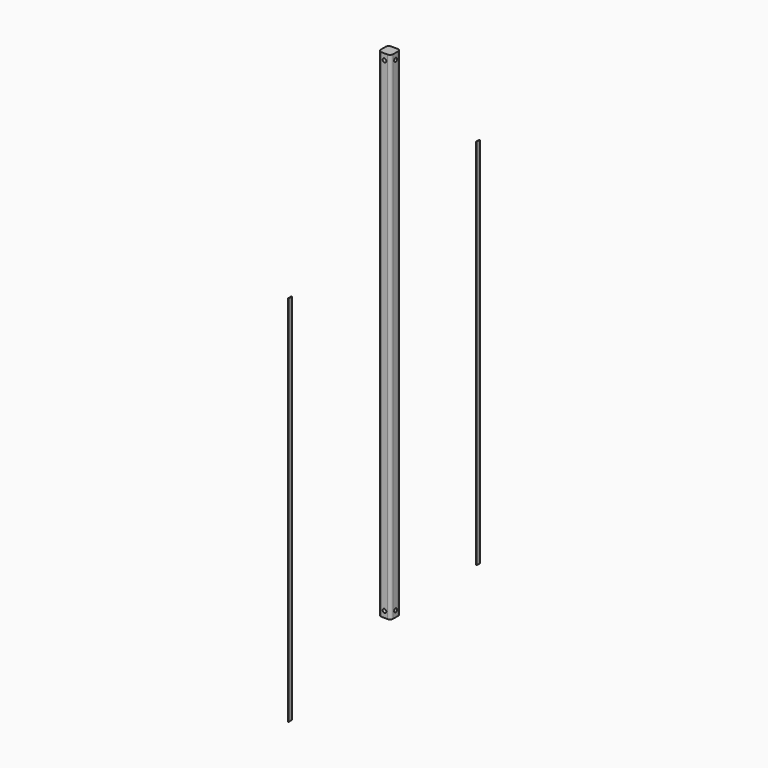
from build123d import *

# Parameters (mm, degrees)
F1_DEPTH  = 1016
F2_W      = 8.46582
F2_H      = 762
F3_DEPTH  = 1.27
F4_W      = 8.46582
F4_H      = 762
F5_DEPTH  = 1.27
F7_DEPTH  = 25.4
F8_DEPTH  = 25.4
F10_DEPTH = 25.4


with BuildPart() as f1:
    # F0 (on Top) → F1 (new body)
    with BuildSketch(Plane.XY):
        with BuildLine():
            ThreePointArc((12.7, 6.35), (10.840128, 10.840128), (6.35, 12.7))
            Line((6.35, 12.7), (-6.35, 12.7))
            ThreePointArc((-6.35, 12.7), (-10.840128, 10.840128), (-12.7, 6.35))
            Line((-12.7, 6.35), (-12.7, -6.35))
            ThreePointArc((-12.7, -6.35), (-10.840128, -10.840128), (-6.35, -12.7))
            Line((-6.35, -12.7), (6.35, -12.7))
            ThreePointArc((6.35, -12.7), (10.840128, -10.840128), (12.7, -6.35))
            Line((12.7, -6.35), (12.7, 6.35))
        make_face()
    extrude(amount=F1_DEPTH)

    # F6 (on face) → F7 (cut)
    with BuildSketch(Plane.XZ.offset(12.7)):
        with BuildLine():
            ThreePointArc((3.81, 1003.3), (2.694077, 1005.994077), (0, 1007.11))
            ThreePointArc((0, 1007.11), (-2.694077, 1000.605923), (3.81, 1003.3))
        make_face()
    extrude(amount=-F7_DEPTH, mode=Mode.SUBTRACT)

    # F6 (on face) → F8 (cut)
    with BuildSketch(Plane.XZ.offset(12.7)):
        with BuildLine():
            ThreePointArc((0, 1007.11), (-2.694077, 1000.605923), (3.81, 1003.3))
            ThreePointArc((3.81, 1003.3), (2.694077, 1005.994077), (0, 1007.11))
        make_face()
        with BuildLine():
            ThreePointArc((0, 8.89), (2.694077, 10.005923), (3.81, 12.7))
            ThreePointArc((3.81, 12.7), (-2.694077, 15.394077), (0, 8.89))
        make_face()
    extrude(amount=-F8_DEPTH, mode=Mode.SUBTRACT)

    # F9 (on face) → F10 (cut)
    with BuildSketch(Plane.YZ.offset(12.7)):
        with BuildLine():
            ThreePointArc((3.81, 1003.3), (2.694077, 1005.994077), (0, 1007.11))
            ThreePointArc((0, 1007.11), (-2.694077, 1000.605923), (3.81, 1003.3))
        make_face()
        with BuildLine():
            ThreePointArc((3.81, 12.7), (-2.694077, 15.394077), (0, 8.89))
            ThreePointArc((0, 8.89), (2.694077, 10.005923), (3.81, 12.7))
        make_face()
    extrude(amount=-F10_DEPTH, mode=Mode.SUBTRACT)


with BuildPart() as f3:
    # F2 (on Right) → F3 (new body)
    with BuildSketch(Plane.YZ):
        with Locations((-254.764381, 294.385428)):
            Rectangle(F2_W, F2_H)
    extrude(amount=F3_DEPTH)


with BuildPart() as f5:
    # F4 (on Right) → F5 (new body)
    with BuildSketch(Plane.YZ):
        with Locations((225.521233, 381)):
            Rectangle(F4_W, F4_H)
    extrude(amount=F5_DEPTH)


solid = Compound([f1.part, f3.part, f5.part])
